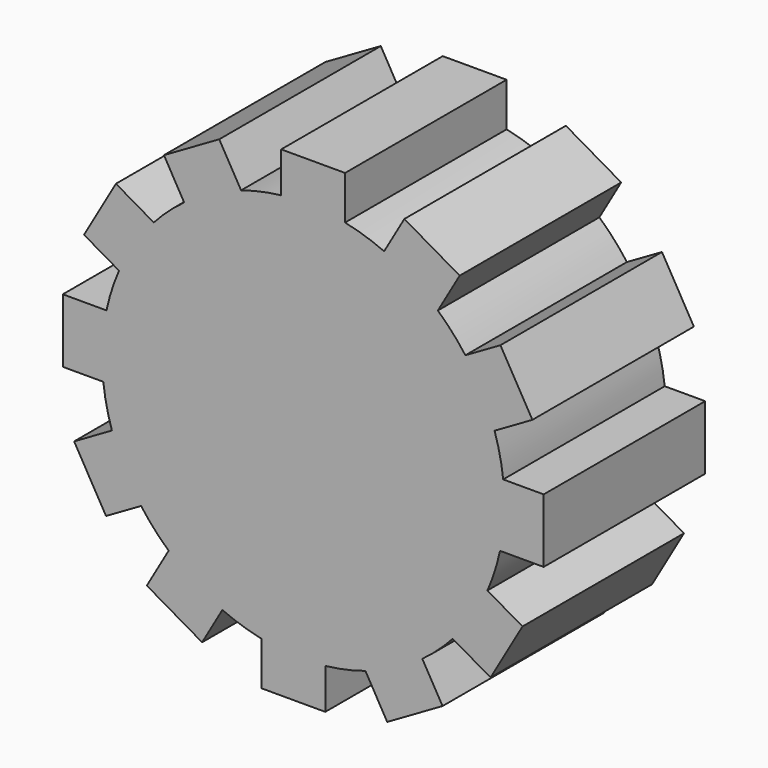
from build123d import *

# Parameters (mm, degrees)
F1_DEPTH = 25


with BuildPart() as f1:
    # F0 (on Front) → F1 (new body)
    with BuildSketch(Plane.XZ):
        with BuildLine():
            ThreePointArc((24.365242, -5.179799), (24.773245, -2.60417), (24.909744, 0))
            ThreePointArc((24.909744, 0), (24.872195, 1.367212), (24.759661, 2.730302))
            ThreePointArc((24.759661, 2.730302), (24.352181, 5.240862), (23.690819, 7.696784))
            ThreePointArc((23.690819, 7.696784), (22.165966, 11.365092), (20.077345, 14.744341))
            ThreePointArc((20.077345, 14.744341), (18.469177, 16.71481), (16.668459, 18.511019))
            ThreePointArc((16.668459, 18.511019), (13.513744, 20.925441), (10.01532, 22.807646))
            ThreePointArc((10.01532, 22.807646), (7.637371, 23.710038), (5.179799, 24.365242))
            ThreePointArc((5.179799, 24.365242), (1.240525, 24.878836), (-2.730302, 24.759661))
            ThreePointArc((-2.730302, 24.759661), (-5.240862, 24.352181), (-7.696784, 23.690819))
            ThreePointArc((-7.696784, 23.690819), (-11.365092, 22.165966), (-14.744341, 20.077345))
            ThreePointArc((-14.744341, 20.077345), (-16.71481, 18.469177), (-18.511019, 16.668459))
            ThreePointArc((-18.511019, 16.668459), (-20.925441, 13.513744), (-22.807646, 10.01532))
            ThreePointArc((-22.807646, 10.01532), (-23.710038, 7.637371), (-24.365242, 5.179799))
            ThreePointArc((-24.365242, 5.179799), (-24.878836, 1.240525), (-24.759661, -2.730302))
            ThreePointArc((-24.759661, -2.730302), (-24.352181, -5.240862), (-23.690819, -7.696784))
            ThreePointArc((-23.690819, -7.696784), (-22.165966, -11.365092), (-20.077345, -14.744341))
            ThreePointArc((-20.077345, -14.744341), (-18.469177, -16.71481), (-16.668459, -18.511019))
            ThreePointArc((-16.668459, -18.511019), (-13.513744, -20.925441), (-10.01532, -22.807646))
            ThreePointArc((-10.01532, -22.807646), (-7.637371, -23.710038), (-5.179799, -24.365242))
            ThreePointArc((-5.179799, -24.365242), (-1.240525, -24.878836), (2.730302, -24.759661))
            ThreePointArc((2.730302, -24.759661), (5.240862, -24.352181), (7.696784, -23.690819))
            ThreePointArc((7.696784, -23.690819), (11.365092, -22.165966), (14.744341, -20.077345))
            ThreePointArc((14.744341, -20.077345), (16.71481, -18.469177), (18.511019, -16.668459))
            ThreePointArc((18.511019, -16.668459), (20.925441, -13.513744), (22.807646, -10.01532))
            ThreePointArc((22.807646, -10.01532), (23.710038, -7.637371), (24.365242, -5.179799))
        make_face()
        with BuildLine():
            ThreePointArc((24.759661, 2.730302), (24.872195, 1.367212), (24.909744, 0))
            ThreePointArc((24.909744, 0), (24.773245, -2.60417), (24.365242, -5.179799))
            Line((24.365242, -5.179799), (29.773042, -5.179799))
            Line((29.773042, -5.179799), (29.773042, 2.730302))
            Line((29.773042, 2.730302), (24.759661, 2.730302))
        make_face()
        with BuildLine():
            ThreePointArc((20.077345, 14.744341), (22.165966, 11.365092), (23.690819, 7.696784))
            Line((23.690819, 7.696784), (28.37411, 10.400683))
            Line((28.37411, 10.400683), (24.41906, 17.251032))
            Line((24.41906, 17.251032), (20.077345, 14.744341))
        make_face()
        with BuildLine():
            Line((27.149362, -12.52201), (22.807646, -10.01532))
            ThreePointArc((22.807646, -10.01532), (20.925441, -13.513744), (18.511019, -16.668459))
            Line((18.511019, -16.668459), (23.194311, -19.372359))
            Line((23.194311, -19.372359), (27.149362, -12.52201))
        make_face()
        with BuildLine():
            ThreePointArc((10.01532, 22.807646), (13.513744, 20.925441), (16.668459, 18.511019))
            Line((16.668459, 18.511019), (19.372359, 23.194311))
            Line((19.372359, 23.194311), (12.52201, 27.149362))
            Line((12.52201, 27.149362), (10.01532, 22.807646))
        make_face()
        with BuildLine():
            Line((17.251032, -24.41906), (14.744341, -20.077345))
            ThreePointArc((14.744341, -20.077345), (11.365092, -22.165966), (7.696784, -23.690819))
            Line((7.696784, -23.690819), (10.400683, -28.37411))
            Line((10.400683, -28.37411), (17.251032, -24.41906))
        make_face()
        with BuildLine():
            ThreePointArc((-2.730302, 24.759661), (1.240525, 24.878836), (5.179799, 24.365242))
            Line((5.179799, 24.365242), (5.179799, 29.773042))
            Line((5.179799, 29.773042), (-2.730302, 29.773042))
            Line((-2.730302, 29.773042), (-2.730302, 24.759661))
        make_face()
        with BuildLine():
            Line((2.730302, -29.773042), (2.730302, -24.759661))
            ThreePointArc((2.730302, -24.759661), (-1.240525, -24.878836), (-5.179799, -24.365242))
            Line((-5.179799, -24.365242), (-5.179799, -29.773042))
            Line((-5.179799, -29.773042), (2.730302, -29.773042))
        make_face()
        with BuildLine():
            ThreePointArc((-14.744341, 20.077345), (-11.365092, 22.165966), (-7.696784, 23.690819))
            Line((-7.696784, 23.690819), (-10.400683, 28.37411))
            Line((-10.400683, 28.37411), (-17.251032, 24.41906))
            Line((-17.251032, 24.41906), (-14.744341, 20.077345))
        make_face()
        with BuildLine():
            Line((-12.52201, -27.149362), (-10.01532, -22.807646))
            ThreePointArc((-10.01532, -22.807646), (-13.513744, -20.925441), (-16.668459, -18.511019))
            Line((-16.668459, -18.511019), (-19.372359, -23.194311))
            Line((-19.372359, -23.194311), (-12.52201, -27.149362))
        make_face()
        with BuildLine():
            ThreePointArc((-22.807646, 10.01532), (-20.925441, 13.513744), (-18.511019, 16.668459))
            Line((-18.511019, 16.668459), (-23.194311, 19.372359))
            Line((-23.194311, 19.372359), (-27.149362, 12.52201))
            Line((-27.149362, 12.52201), (-22.807646, 10.01532))
        make_face()
        with BuildLine():
            Line((-24.41906, -17.251032), (-20.077345, -14.744341))
            ThreePointArc((-20.077345, -14.744341), (-22.165966, -11.365092), (-23.690819, -7.696784))
            Line((-23.690819, -7.696784), (-28.37411, -10.400683))
            Line((-28.37411, -10.400683), (-24.41906, -17.251032))
        make_face()
        with BuildLine():
            ThreePointArc((-24.759661, -2.730302), (-24.878836, 1.240525), (-24.365242, 5.179799))
            Line((-24.365242, 5.179799), (-29.773042, 5.179799))
            Line((-29.773042, 5.179799), (-29.773042, -2.730302))
            Line((-29.773042, -2.730302), (-24.759661, -2.730302))
        make_face()
    extrude(amount=F1_DEPTH)


solid = f1.part
